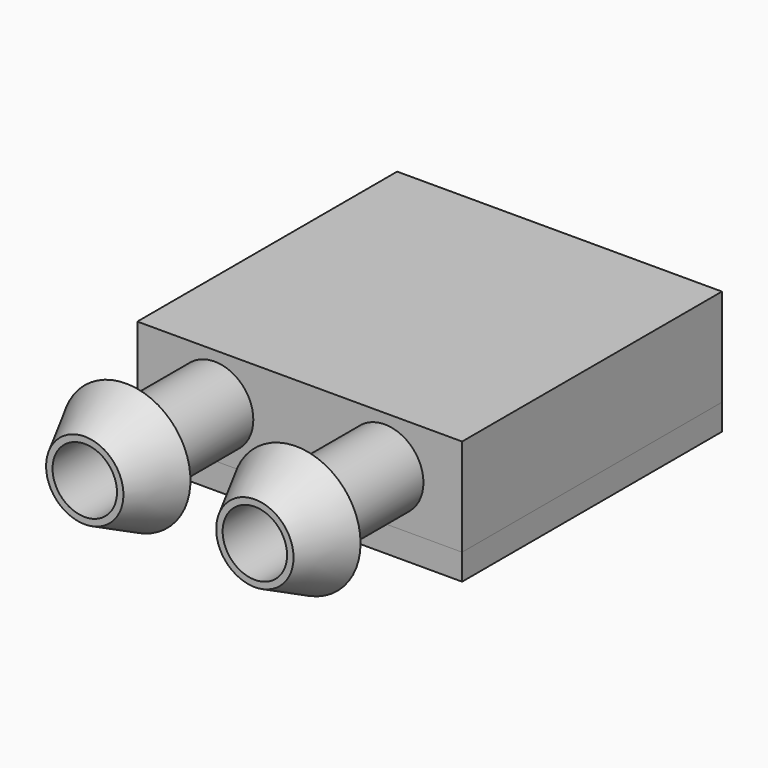
from build123d import *

# Parameters (mm, degrees)
F0_W      = 40
F0_H      = 40
F1_DEPTH  = 3.2
F2_W      = 40
F2_H      = 40
F3_DEPTH  = 12
F4_R      = 4.7625
F5_DEPTH  = 20
F13_D     = 7.9375
F13_DEPTH = 20.001


with BuildPart() as f1:
    # F0 (on Top) → F1 (new body)
    with BuildSketch(Plane.XY):
        with Locations((20, 20)):
            Rectangle(F0_W, F0_H)
    extrude(amount=F1_DEPTH)


with BuildPart() as f3:
    # F2 (on face) → F3 (new body)
    with BuildSketch(Plane.XY.offset(3.2)):
        with Locations((20, 20)):
            Rectangle(F2_W, F2_H)
    extrude(amount=F3_DEPTH)

    # F4 (on face) → F5 (join)
    with BuildSketch(Plane.XZ):
        with Locations((9.525, 9.2)):
            Circle(F4_R)
        with Locations((30.475, 9.2)):
            Circle(F4_R)
    extrude(amount=F5_DEPTH)

    # F10 (on 3pt) → F11 (revolve)
    with BuildSketch(Plane(origin=(0, 0, 9.2), x_dir=(1, 0, 0), z_dir=(0, 0, -1))):
        Polygon((4.7625, 13.65), (4.7625, 20), (1.5875, 13.65), align=None)
    revolve(axis=Axis((9.525, -20, 9.2), (0, -1, 0)))

    # F10 (on 3pt) → F12 (revolve)
    with BuildSketch(Plane(origin=(0, 0, 9.2), x_dir=(1, 0, 0), z_dir=(0, 0, -1))):
        Polygon((38.4125, 13.65), (35.2375, 20), (35.2375, 13.65), align=None)
    revolve(axis=Axis((30.475, -20, 9.2), (0, -1, 0)))

    # F13 (through all, one way)
    with BuildSketch(Plane(origin=(0, 0, 0), x_dir=(1, 0, 0), z_dir=(0, 1, 0))):
        with Locations((9.525, -9.2), (30.475, -9.2)):
            Circle(F13_D / 2)
    extrude(amount=-F13_DEPTH, mode=Mode.SUBTRACT)


solid = Compound([f1.part, f3.part])
